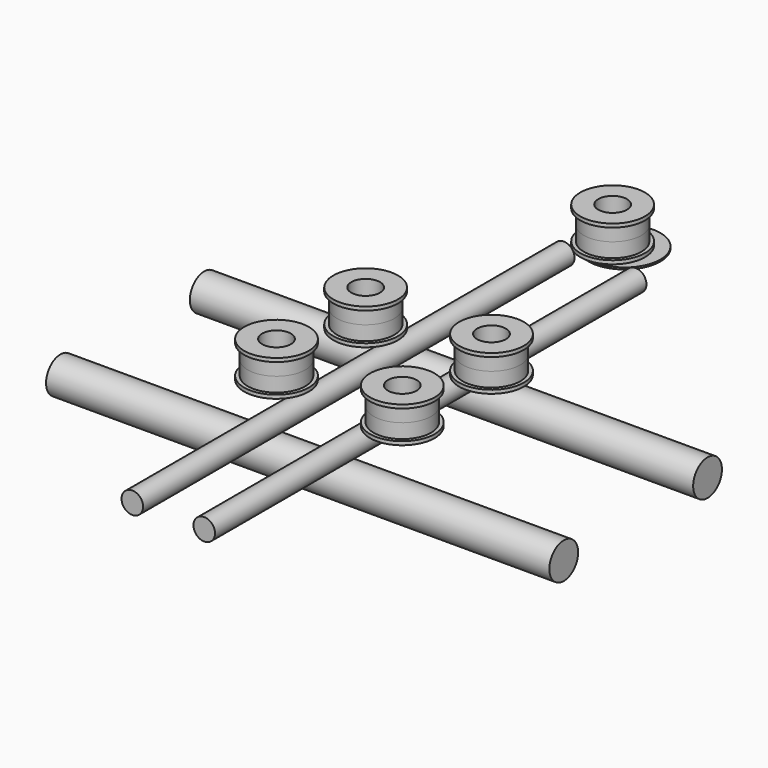
from build123d import *

# Parameters (mm, degrees)
F0_R      = 5
F1_DEPTH  = 70
F2_R      = 3
F3_DEPTH  = 75
F4_R      = 9
F4_R_2    = 8
F5_DEPTH  = 1
F4_R_3    = 5.5
F4_R_4    = 4
F6_DEPTH  = 5
F9_ANGLE  = 180
F13_ANGLE = 180
F4_R_5    = 10
F16_DEPTH = 0.5


with BuildPart() as f1:
    # F0 (on Right) → F1 (new body, symmetric)
    with BuildSketch(Plane.YZ):
        with Locations((-25, 5)):
            Circle(F0_R)
    extrude(amount=F1_DEPTH, both=True)


with BuildPart() as f1b:
    # F0 (on Right) → F1, piece 2 (new body, symmetric)
    with BuildSketch(Plane.YZ):
        with Locations((25, 5)):
            Circle(F0_R)
    extrude(amount=F1_DEPTH, both=True)


with BuildPart() as f3:
    # F2 (on Front) → F3 (new body, symmetric)
    with BuildSketch(Plane.XZ):
        with Locations((-10, 13.5)):
            Circle(F2_R)
    extrude(amount=F3_DEPTH, both=True)


with BuildPart() as f3b:
    # F2 (on Front) → F3, piece 2 (new body, symmetric)
    with BuildSketch(Plane.XZ):
        with Locations((10, 13.5)):
            Circle(F2_R)
    extrude(amount=F3_DEPTH, both=True)


with BuildPart() as f5:
    # F4 (on Top) → F5 (new body)
    with BuildSketch(Plane.XY):
        with Locations((-17.5, 15.5)):
            Circle(F4_R)
        with Locations((-17.5, 15.5)):
            Circle(F4_R_2, mode=Mode.SUBTRACT)
    extrude(amount=F5_DEPTH)

    # F4 (on Top) → F6 (join)
    with BuildSketch(Plane.XY):
        with Locations((-17.5, 15.5)):
            Circle(F4_R_2)
        with Locations((-17.5, 15.5)):
            Circle(F4_R_3, mode=Mode.SUBTRACT)
        with Locations((-17.5, 15.5)):
            Circle(F4_R_3)
        with Locations((-17.5, 15.5)):
            Circle(F4_R_4, mode=Mode.SUBTRACT)
    extrude(amount=F6_DEPTH)


with BuildPart() as f7_1:
    # F7: copy of F5
    add(f5.part.moved(Location((35, 0, 0))))


with BuildPart() as f8_1:
    # F8: copy of F5
    add(f5.part.moved(Location((0, -31, 0))))


with BuildPart() as f8_2:
    # F8: copy of F7_1
    add(f7_1.part.moved(Location((0, -31, 0))))


with BuildPart() as f9_1:
    # F9: copy of F5
    add(f5.part.rotate(Axis((-2.5187656283, 0, 0), (1, 0, 0)), F9_ANGLE))


with BuildPart() as f9_2:
    # F9: copy of F7_1
    add(f7_1.part.rotate(Axis((-2.5187656283, 0, 0), (1, 0, 0)), F9_ANGLE))


with BuildPart() as f9_3:
    # F9: copy of F8_2
    add(f8_2.part.rotate(Axis((-2.5187656283, 0, 0), (1, 0, 0)), F9_ANGLE))


with BuildPart() as f9_4:
    # F9: copy of F8_1
    add(f8_1.part.rotate(Axis((-2.5187656283, 0, 0), (1, 0, 0)), F9_ANGLE))


with BuildPart() as f9_4_1:
    # F10: moved
    add(f9_4.part.moved(Location((0, 0, 27))))


with BuildPart() as f9_1_1:
    # F10: moved
    add(f9_1.part.moved(Location((0, 0, 27))))


with BuildPart() as f9_2_1:
    # F10: moved
    add(f9_2.part.moved(Location((0, 0, 27))))


with BuildPart() as f9_3_1:
    # F10: moved
    add(f9_3.part.moved(Location((0, 0, 27))))


with BuildPart() as f8_2_1:
    # F11: moved
    add(f8_2.part.moved(Location((0, 0, 17))))


with BuildPart() as f7_1_1:
    # F11: moved
    add(f7_1.part.moved(Location((0, 0, 17))))


with BuildPart() as f5_1:
    # F11: moved
    add(f5.part.moved(Location((0, 0, 17))))


with BuildPart() as f8_1_1:
    # F11: moved
    add(f8_1.part.moved(Location((0, 0, 17))))


with BuildPart() as f12_1:
    # F12: copy of F9_4
    add(f9_4_1.part.moved(Location((17.5, 64, 0))))


with BuildPart() as f13_1:
    # F13: copy of F12_1
    add(f12_1.part.rotate(Axis((-2.5187656283, 0, 0), (1, 0, 0)), F13_ANGLE))


with BuildPart() as f13_1_1:
    # F14: moved
    add(f13_1.part.moved(Location((0, 159, 44))))


with BuildPart() as f13_1_2:
    # F15: moved
    add(f13_1_1.part.moved(Location((0, -90, 0))))


with BuildPart() as f3_1:
    # F15: moved
    add(f3.part.moved(Location((0, -90, 0))))


with BuildPart() as f12_1_1:
    # F15: moved
    add(f12_1.part.moved(Location((0, -90, 0))))


with BuildPart() as f7_1_2:
    # F15: moved
    add(f7_1_1.part.moved(Location((0, -90, 0))))


with BuildPart() as f3b_1:
    # F15: moved
    add(f3b.part.moved(Location((0, -90, 0))))


with BuildPart() as f9_3_2:
    # F15: moved
    add(f9_3_1.part.moved(Location((0, -90, 0))))


with BuildPart() as f1b_1:
    # F15: moved
    add(f1b.part.moved(Location((0, -90, 0))))


with BuildPart() as f1_1:
    # F15: moved
    add(f1.part.moved(Location((0, -90, 0))))


with BuildPart() as f5_2:
    # F15: moved
    add(f5_1.part.moved(Location((0, -90, 0))))


with BuildPart() as f8_1_2:
    # F15: moved
    add(f8_1_1.part.moved(Location((0, -90, 0))))


with BuildPart() as f8_2_2:
    # F15: moved
    add(f8_2_1.part.moved(Location((0, -90, 0))))


with BuildPart() as f9_1_2:
    # F15: moved
    add(f9_1_1.part.moved(Location((0, -90, 0))))


with BuildPart() as f9_2_2:
    # F15: moved
    add(f9_2_1.part.moved(Location((0, -90, 0))))


with BuildPart() as f9_4_2:
    # F15: moved
    add(f9_4_1.part.moved(Location((0, -90, 0))))


with BuildPart() as f16:
    # F4 (on Top) → F16 (new body)
    with BuildSketch(Plane.XY):
        with Locations((-17.5, 15.5)):
            Circle(F4_R_5)
        with Locations((-17.5, 15.5)):
            Circle(F4_R, mode=Mode.SUBTRACT)
        with Locations((-17.5, 15.5)):
            Circle(F4_R)
        with Locations((-17.5, 15.5)):
            Circle(F4_R_2, mode=Mode.SUBTRACT)
        with Locations((-17.5, 15.5)):
            Circle(F4_R_2)
        with Locations((-17.5, 15.5)):
            Circle(F4_R_3, mode=Mode.SUBTRACT)
    extrude(amount=F16_DEPTH)


solid = Compound([f13_1_2.part, f3_1.part, f12_1_1.part, f7_1_2.part, f3b_1.part, f9_3_2.part, f1b_1.part, f1_1.part, f5_2.part, f8_1_2.part, f8_2_2.part, f9_1_2.part, f9_2_2.part, f9_4_2.part, f16.part])
